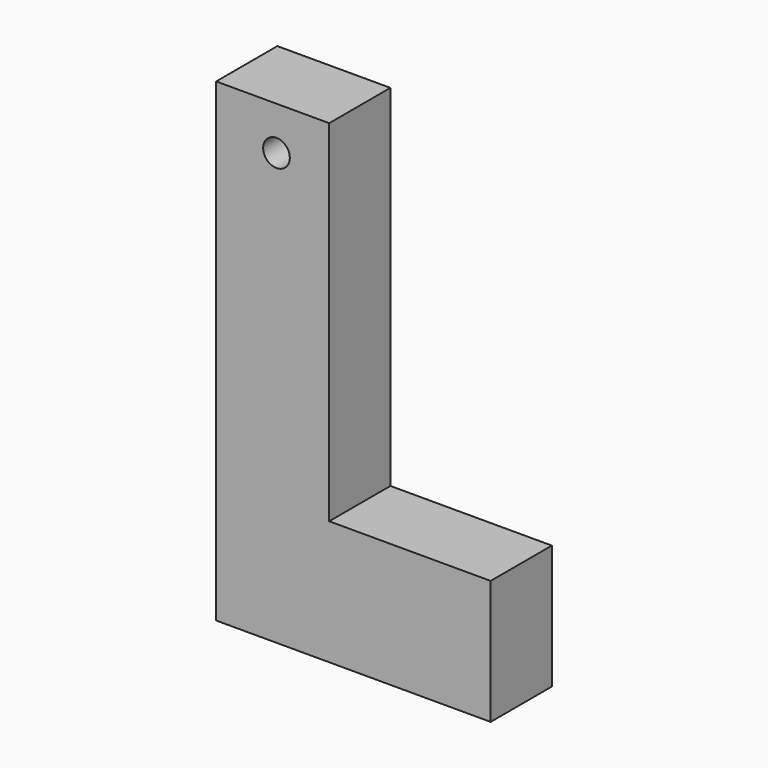
from build123d import *

# Parameters (mm, degrees)
F1_W     = 37.5312119722
F1_H     = 116.3520403206
F1_R     = 4.4213325692
F0_DEPTH = 25.4


with BuildPart() as f0:
    # F1 (on Front) → F0 (new body)
    with BuildSketch(Plane.XZ):
        Polygon((-43.9940840006, -29.9045369029), (47.1310839057, -29.9045369029), (47.1310839057, 11.3114714622), (-6.4628720284, 11.3114714622), (-43.9940840006, 11.3114714622), align=None)
        with Locations((-25.2284780145, 69.4874916226)):
            Rectangle(F1_W, F1_H)
        with Locations((-23.9656437188, 113.2725179195)):
            Circle(F1_R, mode=Mode.SUBTRACT)
        with Locations((-25.2284780145, 69.4874916226)):
            Rectangle(F1_W, F1_H)
        with Locations((-23.9656437188, 113.2725179195)):
            Circle(F1_R, mode=Mode.SUBTRACT)
        Polygon((-43.9940840006, -29.9045369029), (47.1310839057, -29.9045369029), (47.1310839057, 11.3114714622), (-6.4628720284, 11.3114714622), (-43.9940840006, 11.3114714622), align=None)
    extrude(amount=F0_DEPTH)


solid = f0.part
